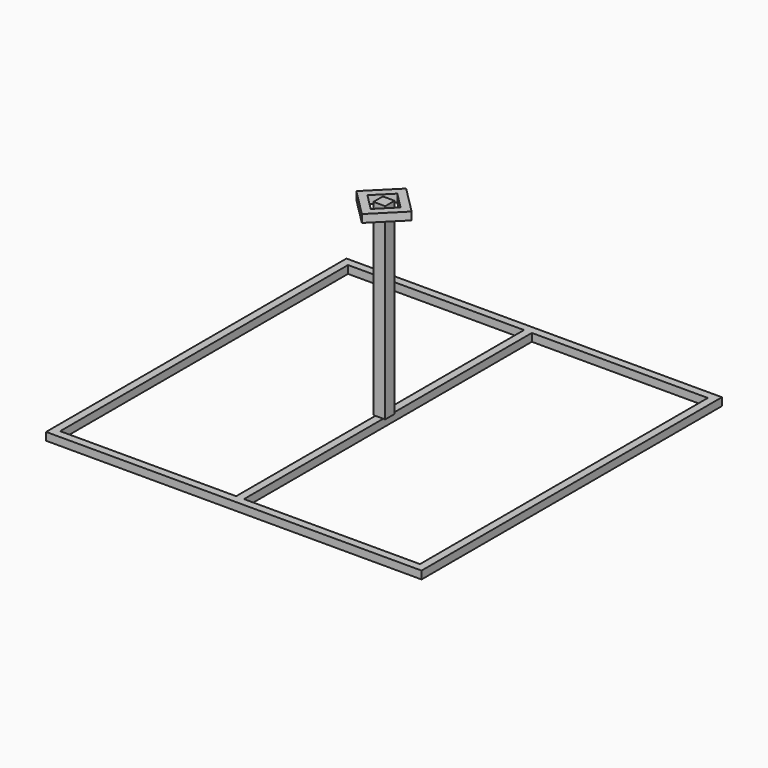
from build123d import *

# Parameters (mm, degrees)
F0_W     = 1219.2
F0_H     = 1219.2
F0_W_2   = 25.4
F0_H_2   = 1168.4
F1_DEPTH = 25.4
F3_W     = 38.1
F3_H     = 38.1
F4_DEPTH = 609.6
F6_DEPTH = 25.4


with BuildPart() as f1:
    # F0 (on Top) → F1 (new body)
    with BuildSketch(Plane.XY):
        Rectangle(F0_W, F0_H)
        Polygon((-12.7, -584.2), (-584.2, -584.2), (-584.2, 584.2), (-12.7, 584.2), (12.7, 584.2), (584.2, 584.2), (584.2, -584.2), (12.7, -584.2), align=None, mode=Mode.SUBTRACT)
        Rectangle(F0_W_2, F0_H_2)
    extrude(amount=F1_DEPTH)

    # F3 (on face) → F4 (join)
    with BuildSketch(Plane.XY.offset(25.4)):
        Rectangle(F3_W, F3_H)
    extrude(amount=F4_DEPTH)


with BuildPart() as f6:
    # F5 (on face) → F6 (new body)
    with BuildSketch(Plane.XY.offset(635)):
        Polygon((89.802561, 0), (0, 89.802561), (-89.802561, 0), (0, -89.802561), align=None)
        Polygon((0, -53.881537), (-53.881537, 0), (0, 53.881537), (53.881537, 0), align=None, mode=Mode.SUBTRACT)
    extrude(amount=-F6_DEPTH)


solid = Compound([f1.part, f6.part])
